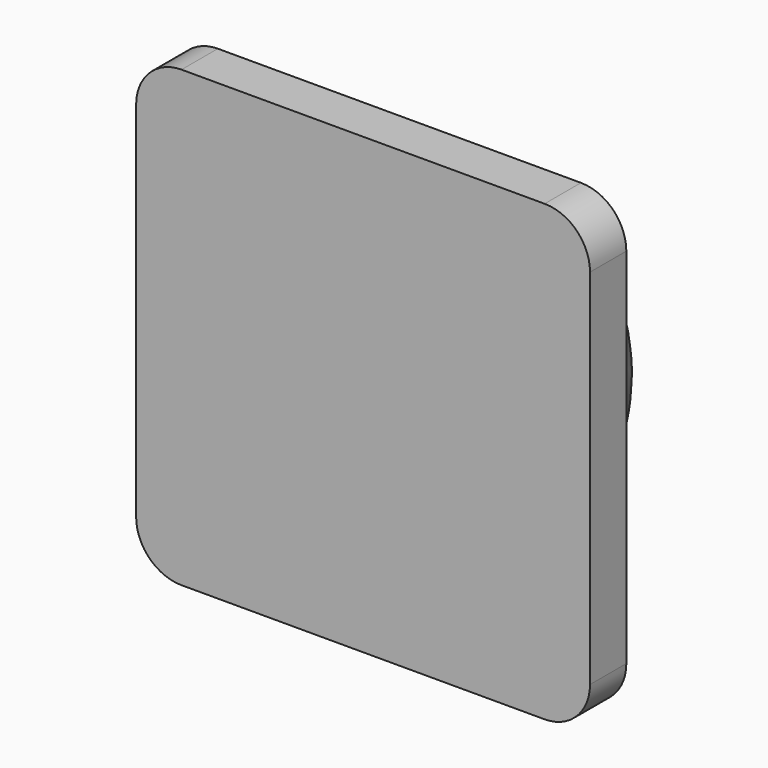
from build123d import *

# Parameters (mm, degrees)
F2_W     = 15
F2_H     = 15
F3_DEPTH = 3
F4_R     = 3


with BuildPart() as f1:
    # F0 (on Top) → F1 (revolve)
    with BuildSketch(Plane.XY):
        with BuildLine():
            Line((-12, 0), (0, 0))
            Line((0, 0), (0, 12))
            ThreePointArc((0, 12), (-8.485281, 8.485281), (-12, 0))
        make_face()
    revolve(axis=Axis((0, 6, 0), (0, 1, 0)))

    # F2 (on Front) → F3 (join)
    with BuildSketch(Plane.XZ):
        with Locations((-7.5, -7.5)):
            Rectangle(F2_W, F2_H)
        Polygon((14.947975, 0), (0, 0), (0, -15), (15, -15), (15, 0), align=None)
        Polygon((-15, 0), (0, 0), (14.947975, 0), (15, 0), (15, 15), (-15, 15), align=None)
    extrude(amount=F3_DEPTH)

    # F4
    f4_edges = [f1.edges().sort_by_distance(p)[0] for p in [
        (15, -1.5, 15),
        (15, -1.5, -15),
        (-15, -1.5, -15),
        (-15, -1.5, 15),
        (12, 0, 0),
    ]]
    fillet(f4_edges, radius=F4_R)


solid = f1.part
